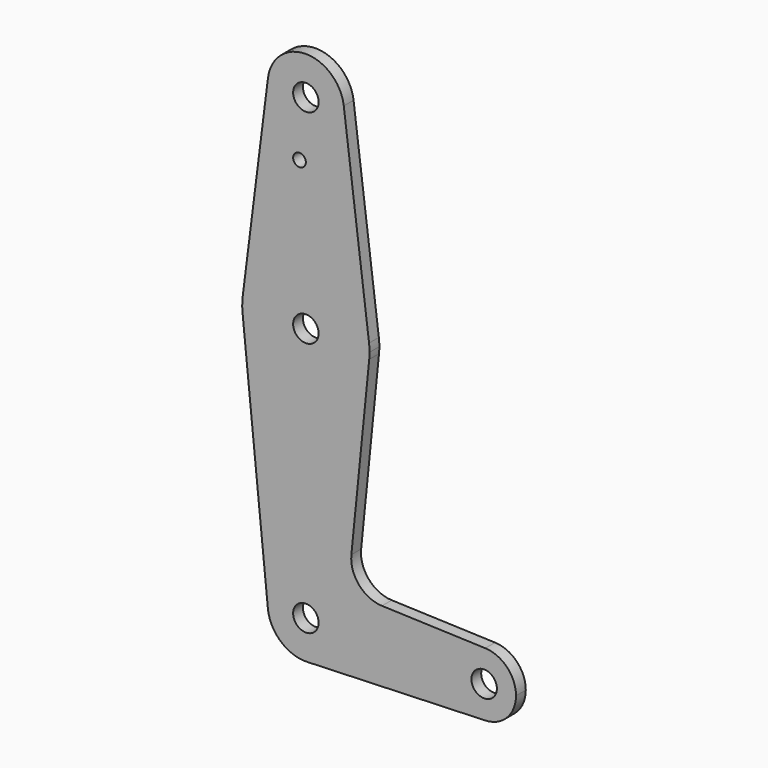
from build123d import *

# Parameters (mm, degrees)
F0_R     = 3.175
F0_R_2   = 1.5875
F1_DEPTH = 3.048


with BuildPart() as f1:
    # F0 (on Front) → F1 (new body)
    with BuildSketch(Plane.XZ):
        with BuildLine():
            ThreePointArc((15.795426, -1.5875), (15.855094, -0.794747), (15.875, 0))
            ThreePointArc((15.875, 0), (15.843841, 0.994139), (15.750488, 1.984375))
            ThreePointArc((15.750488, 1.984375), (0, 15.875), (-15.750488, 1.984375))
            ThreePointArc((-15.750488, 1.984375), (-15.873744, 0.199705), (-15.795426, -1.5875))
            ThreePointArc((-15.795426, -1.5875), (0, -15.875), (15.795426, -1.5875))
        make_face()
        Circle(F0_R, mode=Mode.SUBTRACT)
        with BuildLine():
            ThreePointArc((-15.750488, 1.984375), (0, 15.875), (15.750488, 1.984375))
            Line((15.750488, 1.984375), (9.450293, 51.990625))
            ThreePointArc((9.450293, 51.990625), (9.506305, 51.396483), (9.525, 50.8))
            ThreePointArc((9.525, 50.8), (-0.596483, 41.293695), (-9.450293, 51.990625))
            Line((-9.450293, 51.990625), (-15.750488, 1.984375))
        make_face()
        with Locations((-1.5875, 36.5252)):
            Circle(F0_R_2, mode=Mode.SUBTRACT)
        with BuildLine():
            Line((11.341187, -45.906618), (15.795426, -1.5875))
            ThreePointArc((15.795426, -1.5875), (0, -15.875), (-15.795426, -1.5875))
            Line((-15.795426, -1.5875), (-9.477255, -64.4525))
            ThreePointArc((-9.477255, -64.4525), (-0.476848, -53.986944), (9.525, -63.5))
            ThreePointArc((9.525, -63.5), (6.854408, -70.113827), (0.340179, -73.018923))
            Line((0.340179, -73.018923), (44.733482, -71.432436))
            ThreePointArc((44.733482, -71.432436), (36.5125, -63.5), (44.733482, -55.567564))
            Line((44.733482, -55.567564), (18.9676, -54.646766))
            ThreePointArc((18.9676, -54.646766), (13.2612, -51.928641), (11.341187, -45.906618))
        make_face()
        with BuildLine():
            ThreePointArc((9.525, 50.8), (9.506305, 51.396483), (9.450293, 51.990625))
            ThreePointArc((9.450293, 51.990625), (0, 60.325), (-9.450293, 51.990625))
            ThreePointArc((-9.450293, 51.990625), (-0.596483, 41.293695), (9.525, 50.8))
        make_face()
        with Locations((0, 50.8)):
            Circle(F0_R, mode=Mode.SUBTRACT)
        with BuildLine():
            ThreePointArc((9.525, -63.5), (-0.476848, -53.986944), (-9.477255, -64.4525))
            ThreePointArc((-9.477255, -64.4525), (-6.262383, -70.67692), (0.340179, -73.018923))
            ThreePointArc((0.340179, -73.018923), (6.854408, -70.113827), (9.525, -63.5))
        make_face()
        with Locations((0, -63.5)):
            Circle(F0_R, mode=Mode.SUBTRACT)
        with BuildLine():
            ThreePointArc((52.3875, -63.5), (50.162007, -57.988477), (44.733482, -55.567564))
            ThreePointArc((44.733482, -55.567564), (36.5125, -63.5), (44.733482, -71.432436))
            ThreePointArc((44.733482, -71.432436), (50.162007, -69.011523), (52.3875, -63.5))
        make_face()
        with Locations((44.45, -63.5)):
            Circle(F0_R, mode=Mode.SUBTRACT)
    extrude(amount=F1_DEPTH)


solid = f1.part
